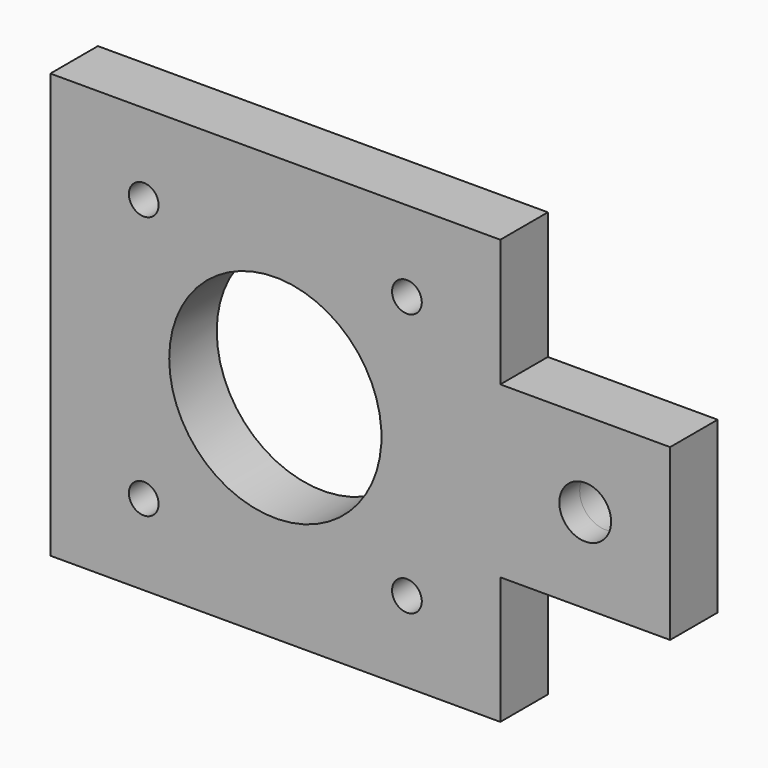
from build123d import *

# Parameters (mm, degrees)
F0_W      = 32
F0_H      = 20
F0_R      = 3.05
F1_DEPTH  = 3
F2_W      = 32
F2_H      = 20
F2_R      = 3.05
F3_DEPTH  = 4
F5_W      = 12
F5_H      = 20
F6_DEPTH  = 7.001
F4_W      = 53
F4_H      = 50
F4_R      = 1.75
F4_R_2    = 12.5
F7_DEPTH  = 7
F10_W     = 38.6691533923
F10_H     = 26.006084159
F11_DEPTH = 12.5


with BuildPart() as f1:
    # F0 (on Front) → F1 (new body)
    with BuildSketch(Plane.XZ):
        with Locations((-1.5, 0)):
            Rectangle(F0_W, F0_H)
        with Locations((4.5, 0)):
            Circle(F0_R, mode=Mode.SUBTRACT)
    extrude(amount=F1_DEPTH)

    # F2 (on face) → F3 (join)
    with BuildSketch(Plane(origin=(0, 0, 0), x_dir=(-1, 0, 0), z_dir=(0, 1, 0))):
        with Locations((1.5, 0)):
            Rectangle(F2_W, F2_H)
        with Locations((-4.5, 0)):
            Circle(F2_R, mode=Mode.SUBTRACT)
    extrude(amount=F3_DEPTH)

    # F5 (on face) → F6 (cut, through all)
    with BuildSketch(Plane(origin=(0, 4, 0), x_dir=(-1, 0, 0), z_dir=(0, 1, 0))):
        with Locations((11.5, 0)):
            Rectangle(F5_W, F5_H)
    extrude(amount=-F6_DEPTH, mode=Mode.SUBTRACT)

    # F4 (on face) → F7 (join)
    with BuildSketch(Plane(origin=(0, 4, 0), x_dir=(-1, 0, 0), z_dir=(0, 1, 0))):
        with Locations((32, 0)):
            Rectangle(F4_W, F4_H)
        with Locations((16.5, -15.5)):
            Circle(F4_R, mode=Mode.SUBTRACT)
        with Locations((47.5, -15.5)):
            Circle(F4_R, mode=Mode.SUBTRACT)
        with Locations((16.5, 15.5)):
            Circle(F4_R, mode=Mode.SUBTRACT)
        with Locations((32, 0)):
            Circle(F4_R_2, mode=Mode.SUBTRACT)
        with Locations((47.5, 15.5)):
            Circle(F4_R, mode=Mode.SUBTRACT)
    extrude(amount=-F7_DEPTH)

    # F9: F1 across plane


with BuildPart() as f1_1:
    add(f1.part)
    add(f1.part.mirror(Plane.YZ.offset(-32)))

    # F10 (on Front) → F11 (cut, symmetric)
    with BuildSketch(Plane.XZ):
        with Locations((-77.8345766962, -3.0030420795)):
            Rectangle(F10_W, F10_H)
    extrude(amount=F11_DEPTH, both=True, mode=Mode.SUBTRACT)


solid = f1_1.part
